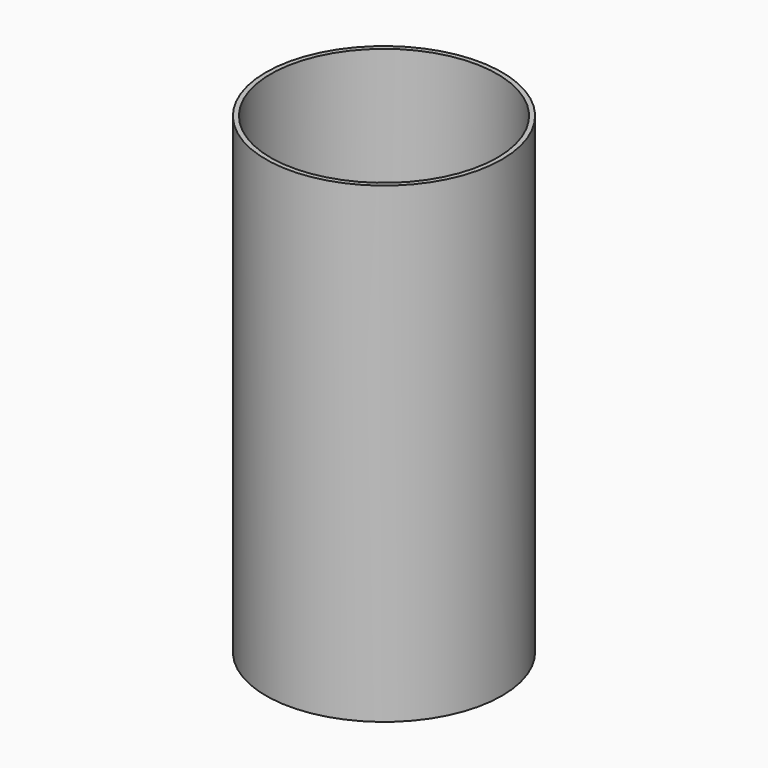
from build123d import *

# Parameters (mm, degrees)
F0_R     = 25
F1_DEPTH = 100
F2_T     = -1
F3_DEPTH = 1
F4_W     = 3
F4_H     = 3
F5_DEPTH = 5


with BuildPart() as f1:
    # F0 (on Top) → F1 (new body)
    with BuildSketch(Plane.XY):
        Circle(F0_R)
    extrude(amount=F1_DEPTH)

    # F2
    f2_openings = [f1.faces().sort_by_distance(p)[0] for p in [
        (0, 0, 100),
    ]]
    offset(amount=F2_T, openings=f2_openings)


with BuildPart() as f3:
    # F3 (new): a face of the model
    f3_faces = [f1.part.faces().sort_by_distance(p)[0] for p in [
        (0, 0, 1),
    ]]
    extrude(f3_faces, amount=F3_DEPTH)


with BuildPart() as f5:
    # F4 (on Front) → F5 (new body)
    with BuildSketch(Plane.XZ):
        with Locations((0, 4.0237640916)):
            Rectangle(F4_W, F4_H)
    extrude(amount=F5_DEPTH)


solid = Compound([f1.part, f3.part])
